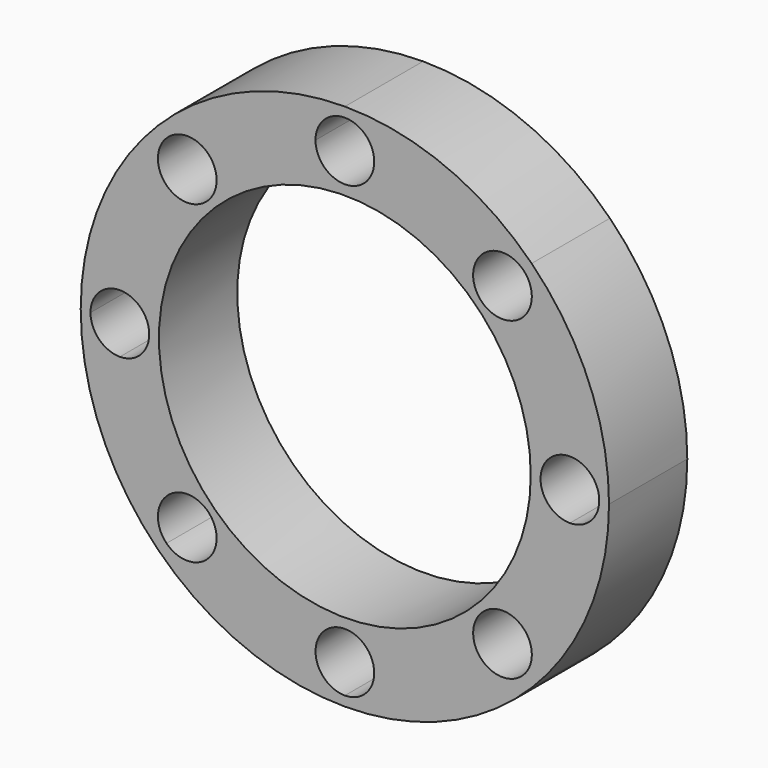
from build123d import *

# Parameters (mm, degrees)
F1_DEPTH = 1.27


with BuildPart() as f1:
    # F0 (on Front) → F1 (new body)
    with BuildSketch(Plane.XZ):
        with BuildLine():
            ThreePointArc((5.8536691527, 1.0043308473), (6.596982917, 2.1167785104), (6.858, 3.429))
            ThreePointArc((6.858, 3.429), (6.596982917, 4.7412214896), (5.8536691527, 5.8536691527))
            ThreePointArc((5.8536691527, 5.8536691527), (4.7412214896, 6.596982917), (3.429, 6.858))
            ThreePointArc((3.429, 6.858), (2.1167785104, 6.596982917), (1.0043308473, 5.8536691527))
            ThreePointArc((1.0043308473, 5.8536691527), (0.261017083, 4.7412214896), (0, 3.429))
            ThreePointArc((0, 3.429), (0.261017083, 2.1167785104), (1.0043308473, 1.0043308473))
            ThreePointArc((1.0043308473, 1.0043308473), (2.1167785104, 0.261017083), (3.429, 0))
            ThreePointArc((3.429, 0), (4.7412214896, 0.261017083), (5.8536691527, 1.0043308473))
        make_face()
        with BuildLine():
            ThreePointArc((1.7639594426, 1.3829594426), (1.5287618304, 1.0309613408), (1.113551759, 1.113551759))
            ThreePointArc((1.113551759, 1.113551759), (1.0019594426, 1.3829594426), (1.113551759, 1.6523671263))
            ThreePointArc((1.113551759, 1.6523671263), (1.5287618304, 1.7349575445), (1.7639594426, 1.3829594426))
        make_face(mode=Mode.SUBTRACT)
        with BuildLine():
            ThreePointArc((3.81, 0.508), (3.6984076836, 0.2385923164), (3.429, 0.127))
            ThreePointArc((3.429, 0.127), (3.1595923164, 0.7774076836), (3.81, 0.508))
        make_face(mode=Mode.SUBTRACT)
        with BuildLine():
            ThreePointArc((5.8560405574, 1.3829594426), (5.8270386592, 1.2371570549), (5.744448241, 1.113551759))
            ThreePointArc((5.744448241, 1.113551759), (5.0940405574, 1.3829594426), (5.744448241, 1.6523671263))
            ThreePointArc((5.744448241, 1.6523671263), (5.8270386592, 1.5287618304), (5.8560405574, 1.3829594426))
        make_face(mode=Mode.SUBTRACT)
        with BuildLine():
            ThreePointArc((0.508, 3.048), (0.2385923164, 3.1595923164), (0.127, 3.429))
            ThreePointArc((0.127, 3.429), (0.508, 3.81), (0.889, 3.429))
            ThreePointArc((0.889, 3.429), (0.7774076836, 3.1595923164), (0.508, 3.048))
        make_face(mode=Mode.SUBTRACT)
        with BuildLine():
            ThreePointArc((1.7639594426, 5.4750405574), (1.2371570549, 5.1230424555), (1.113551759, 5.744448241))
            ThreePointArc((1.113551759, 5.744448241), (1.3829594426, 5.8560405574), (1.6523671263, 5.744448241))
            ThreePointArc((1.6523671263, 5.744448241), (1.7349575445, 5.6208429451), (1.7639594426, 5.4750405574))
        make_face(mode=Mode.SUBTRACT)
        with BuildLine():
            ThreePointArc((1.016, 3.429), (3.429, 5.842), (5.842, 3.429))
            ThreePointArc((5.842, 3.429), (3.429, 1.016), (1.016, 3.429))
        make_face(mode=Mode.SUBTRACT)
        with BuildLine():
            ThreePointArc((6.35, 3.048), (6.0805923164, 3.6984076836), (6.731, 3.429))
            ThreePointArc((6.731, 3.429), (6.6194076836, 3.1595923164), (6.35, 3.048))
        make_face(mode=Mode.SUBTRACT)
        with BuildLine():
            ThreePointArc((3.048, 6.35), (3.1595923164, 6.6194076836), (3.429, 6.731))
            ThreePointArc((3.429, 6.731), (3.6984076836, 6.6194076836), (3.81, 6.35))
            ThreePointArc((3.81, 6.35), (3.429, 5.969), (3.048, 6.35))
        make_face(mode=Mode.SUBTRACT)
        with BuildLine():
            ThreePointArc((5.2056328737, 5.744448241), (5.4750405574, 5.8560405574), (5.744448241, 5.744448241))
            ThreePointArc((5.744448241, 5.744448241), (5.8270386592, 5.6208429451), (5.8560405574, 5.4750405574))
            ThreePointArc((5.8560405574, 5.4750405574), (5.3292381696, 5.1230424555), (5.2056328737, 5.744448241))
        make_face(mode=Mode.SUBTRACT)
    extrude(amount=F1_DEPTH)


solid = f1.part
